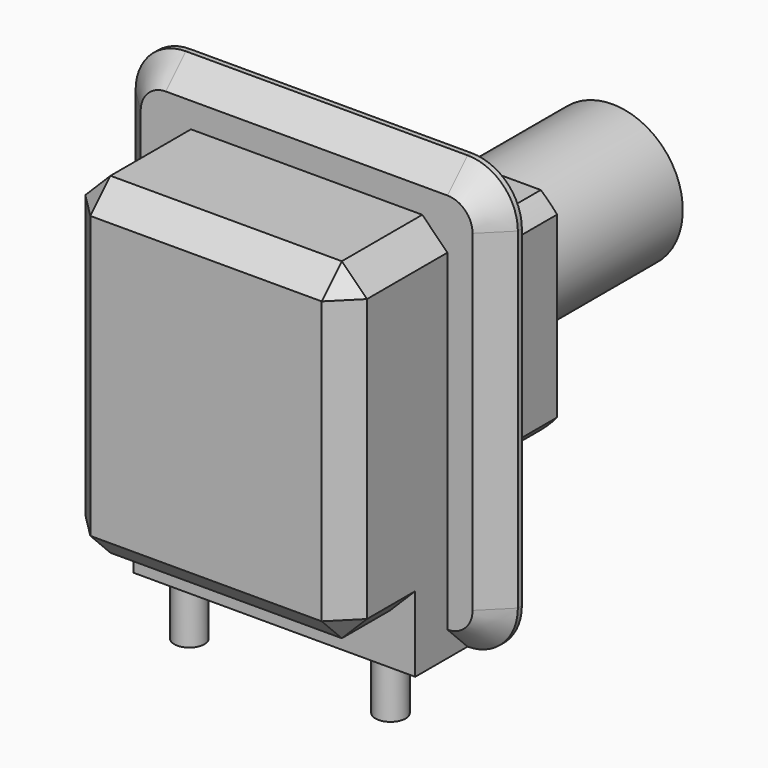
from build123d import *

# Parameters (mm, degrees)
F1_DEPTH  = 6
F2_R      = 27.5
F3_DEPTH  = 30
F4_R      = 14
F5_DEPTH  = 40
F6_W      = 56
F6_H      = 10
F7_DEPTH  = 8
F8_R      = 3
F9_DEPTH  = 10.5
F10_W     = 56
F10_H     = 66
F11_DEPTH = 25
F12_SIZE  = 5
F14_DEPTH = 30


with BuildPart() as f1:
    # F0 (on Front) → F1 (new body)
    with BuildSketch(Plane.XZ):
        with BuildLine():
            ThreePointArc((38, 33), (35.0710678119, 40.0710678119), (28, 43))
            Line((28, 43), (-28, 43))
            ThreePointArc((-28, 43), (-35.0710678119, 40.0710678119), (-38, 33))
            Line((-38, 33), (-38, -33))
            ThreePointArc((-38, -33), (-35.0710678119, -40.0710678119), (-28, -43))
            Line((-28, -43), (28, -43))
            ThreePointArc((28, -43), (35.0710678119, -40.0710678119), (38, -33))
            Line((38, -33), (38, 33))
        make_face()
    extrude(amount=F1_DEPTH)

    # F2 (on face) → F3 (join)
    with BuildSketch(Plane(origin=(0, 0, 0), x_dir=(-1, 0, 0), z_dir=(0, 1, 0))):
        Circle(F2_R)
    extrude(amount=F3_DEPTH)

    # F4 (on face) → F5 (join)
    with BuildSketch(Plane(origin=(0, 30, 0), x_dir=(-1, 0, 0), z_dir=(0, 1, 0))):
        Circle(F4_R)
    extrude(amount=F5_DEPTH)

    # F6 (on face) → F7 (join)
    with BuildSketch(Plane.XZ.offset(6)):
        with Locations((0, -38)):
            Rectangle(F6_W, F6_H)
    extrude(amount=F7_DEPTH)

    # F8 (on face) → F9 (join)
    with BuildSketch(Plane(origin=(0, 0, -43), x_dir=(1, 0, 0), z_dir=(0, 0, -1))):
        with Locations((-20, 10.148444213)):
            Circle(F8_R)
        with Locations((20, 10.148444213)):
            Circle(F8_R)
    extrude(amount=F9_DEPTH)

    # F10 (on face) → F11 (join)
    with BuildSketch(Plane.XZ.offset(6)):
        Rectangle(F10_W, F10_H)
    extrude(amount=F11_DEPTH)

    # F12
    f12_edges = [f1.edges().sort_by_distance(p)[0] for p in [
        (0, -31, 33),
        (28, -31, 0),
        (-28, -31, 0),
        (-28, -18.5, 33),
        (28, -18.5, 33),
        (28, -22.5, -33),
        (0, -31, -33),
        (-28, -22.5, -33),
        (0, -6, 43),
    ]]
    chamfer(f12_edges, length=F12_SIZE)

    # F13 (on face) → F14 (cut, through all)
    with BuildSketch(Plane(origin=(0, 30, 0), x_dir=(-1, 0, 0), z_dir=(0, 1, 0))):
        with BuildLine():
            Line((-17.7552809046, 21), (17.7552809046, 21))
            ThreePointArc((17.7552809046, 21), (0, 27.5), (-17.7552809046, 21))
        make_face()
        with BuildLine():
            ThreePointArc((27.5, 0), (25.8239230172, 9.4538352006), (21, 17.7552809046))
            Line((21, 17.7552809046), (21, -17.7552809046))
            ThreePointArc((21, -17.7552809046), (25.8239230172, -9.4538352006), (27.5, 0))
        make_face()
        with BuildLine():
            ThreePointArc((-17.7552809046, -21), (0, -27.5), (17.7552809046, -21))
            Line((17.7552809046, -21), (-17.7552809046, -21))
        make_face()
        with BuildLine():
            Line((-21, -17.7552809046), (-21, 17.7552809046))
            ThreePointArc((-21, 17.7552809046), (-27.5, 0), (-21, -17.7552809046))
        make_face()
    extrude(amount=-F14_DEPTH, mode=Mode.SUBTRACT)


solid = f1.part
